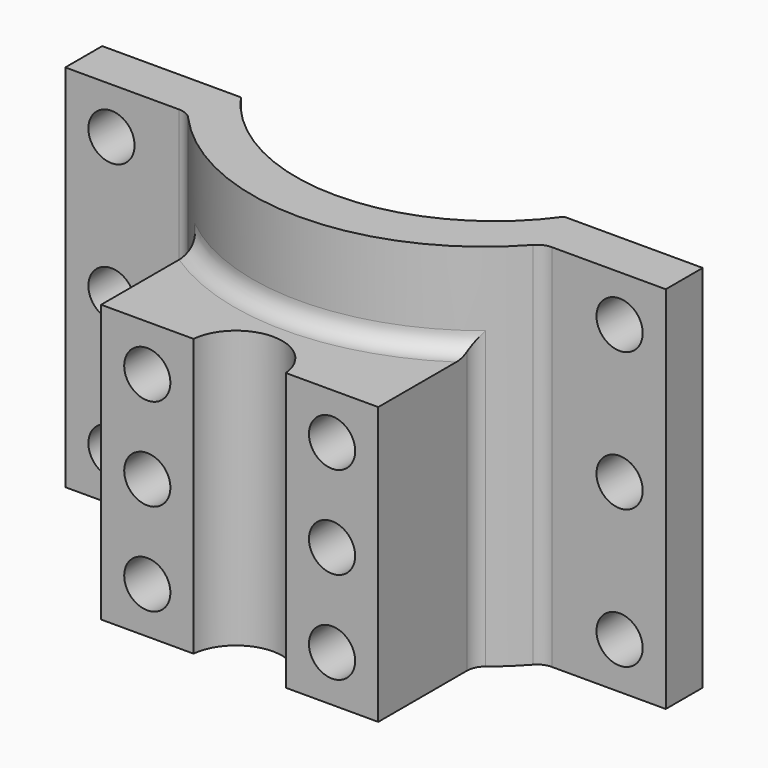
from build123d import *

# Parameters (mm, degrees)
F0_R      = 6.35
F1_DEPTH  = 47.625
F3_DEPTH  = 31.75
F4_R      = 23.8125
F4_R_2    = 18.7325
F5_DEPTH  = 20.32
F6_R      = 54.61
F6_R_2    = 6.35
F7_DEPTH  = 14.605
F8_R      = 54.5973
F8_R_2    = 6.35
F9_DEPTH  = 118.491
F10_R     = 54.61
F10_R_2   = 54.5973
F10_R_3   = 6.35
F11_DEPTH = 57.15
F13_DEPTH = 101.6
F15_DEPTH = 25.4
F16_DEPTH = 76.2
F18_DEPTH = 76.2
F20_D     = 12.7
F20_DEPTH = 12.7
F20_TIP   = 3.8154649308
F22_D     = 12.7
F22_2_D   = 12.7
F23_R     = 5.08
F23_2_R   = 5.08


with BuildPart() as f1:
    # F0 (on Top) → F1 (new body)
    with BuildSketch(Plane.XY):
        Circle(F0_R)
    extrude(amount=-F1_DEPTH)

    # F2 (on face) → F3 (cut)
    with BuildSketch(Plane.XY):
        with BuildLine():
            Line((-3.4925, 5.3032955556), (3.4925, 5.3032955556))
            ThreePointArc((3.4925, 5.3032955556), (0, 6.35), (-3.4925, 5.3032955556))
        make_face()
    extrude(amount=-F3_DEPTH, mode=Mode.SUBTRACT)


with BuildPart() as f5:
    # F4 (on face) → F5 (new body)
    with BuildSketch(Plane(origin=(0, 0, -47.625), x_dir=(1, 0, 0), z_dir=(0, 0, -1))):
        Circle(F4_R)
        Circle(F4_R_2, mode=Mode.SUBTRACT)
    extrude(amount=-F5_DEPTH)


with BuildPart() as f7:
    # F6 (on face) → F7 (new body)
    with BuildSketch(Plane(origin=(0, 0, -47.625), x_dir=(1, 0, 0), z_dir=(0, 0, -1))):
        Circle(F6_R)
        Circle(F6_R_2, mode=Mode.SUBTRACT)
        Circle(F6_R)
        Circle(F6_R_2, mode=Mode.SUBTRACT)
    extrude(amount=F7_DEPTH)

    # F8 (on face) → F9 (join)
    with BuildSketch(Plane(origin=(0, 0, -62.23), x_dir=(1, 0, 0), z_dir=(0, 0, -1))):
        Circle(F8_R)
        Circle(F8_R_2, mode=Mode.SUBTRACT)
    extrude(amount=F9_DEPTH)

    # F10 (on face) → F11 (join)
    with BuildSketch(Plane(origin=(0, 0, -180.721), x_dir=(1, 0, 0), z_dir=(0, 0, -1))):
        Circle(F10_R)
        Circle(F10_R_2, mode=Mode.SUBTRACT)
        Circle(F10_R_2)
        Circle(F10_R_3, mode=Mode.SUBTRACT)
    extrude(amount=F11_DEPTH)


with BuildPart() as f13:
    # F12 (on face) → F13 (new body)
    with BuildSketch(Plane.XY.offset(-47.625)):
        with BuildLine():
            Line((-82.55, 31.7245898319), (-44.45, 31.7245898319))
            ThreePointArc((-44.45, 31.7245898319), (-24.9977223891, 48.5527133676), (0, 54.61))
            Line((0, 54.61), (0, 67.31))
            ThreePointArc((0, 67.31), (-26.9947671741, 61.30558596), (-48.8991597124, 44.4245898319))
            Line((-48.8991597124, 44.4245898319), (-82.55, 44.4245898319))
            Line((-82.55, 44.4245898319), (-82.55, 31.7245898319))
        make_face()
        with BuildLine():
            ThreePointArc((0, 54.61), (24.9977223891, 48.5527133676), (44.45, 31.7245898319))
            Line((44.45, 31.7245898319), (82.55, 31.7245898319))
            Line((82.55, 31.7245898319), (82.55, 44.4245898319))
            Line((82.55, 44.4245898319), (48.8991597124, 44.4245898319))
            ThreePointArc((48.8991597124, 44.4245898319), (26.9947671741, 61.30558596), (0, 67.31))
            Line((0, 67.31), (0, 54.61))
        make_face()
    extrude(amount=-F13_DEPTH)

    # F22 (through all)
    with Locations(Plane.XZ.offset(44.4245898319)):
        with Locations((-69.85, -60.325), (-69.85, -98.425), (-69.85, -136.525), (69.85, -60.325), (69.85, -98.425), (69.85, -136.525)):
            Hole(F22_D / 2)

    # F23#2
    f23_2_edges = [f13.edges().sort_by_distance(p)[0] for p in [
        (-48.89916, 44.42459, -98.425),
        (48.89916, 44.42459, -98.425),
    ]]
    fillet(f23_2_edges, radius=F23_2_R)


with BuildPart() as f15:
    # F14 (on face) → F15 (new body)
    with BuildSketch(Plane.XY.offset(-47.625)):
        with BuildLine():
            Line((82.55, -31.7245898319), (44.45, -31.7245898319))
            ThreePointArc((44.45, -31.7245898319), (24.9977223891, -48.5527133676), (0, -54.61))
            Line((0, -54.61), (0, -67.31))
            ThreePointArc((0, -67.31), (26.9947671741, -61.30558596), (48.8991597124, -44.4245898319))
            Line((48.8991597124, -44.4245898319), (82.55, -44.4245898319))
            Line((82.55, -44.4245898319), (82.55, -31.7245898319))
        make_face()
        with BuildLine():
            ThreePointArc((0, -54.61), (-24.9977223891, -48.5527133676), (-44.45, -31.7245898319))
            Line((-44.45, -31.7245898319), (-82.55, -31.7245898319))
            Line((-82.55, -31.7245898319), (-82.55, -44.4245898319))
            Line((-82.55, -44.4245898319), (-48.8991597124, -44.4245898319))
            ThreePointArc((-48.8991597124, -44.4245898319), (-26.9947671741, -61.30558596), (0, -67.31))
            Line((0, -67.31), (0, -54.61))
        make_face()
    extrude(amount=-F15_DEPTH)

    # F16 (add): faces of the model
    f16_faces = [f15.faces().sort_by_distance(p)[0] for p in [
        (80.8610852178, -38.0745898319, -73.025),
        (80.8610852178, -38.0745898319, -73.025),
    ]]
    extrude(f16_faces, amount=F16_DEPTH)

    # F17 (on face) → F18 (join)
    with BuildSketch(Plane(origin=(0, 0, -149.225), x_dir=(1, 0, 0), z_dir=(0, 0, -1))):
        with BuildLine():
            Line((-38.1, 87.6758182624), (-38.1, 54.6558182624))
            ThreePointArc((-38.1, 54.6558182624), (0, 67.31), (38.1, 54.6558182624))
            Line((38.1, 54.6558182624), (38.1, 87.6758182624))
            Line((38.1, 87.6758182624), (12.7, 87.6758182624))
            ThreePointArc((12.7, 87.6758182624), (0, 76.2), (-12.7, 87.6758182624))
            Line((-12.7, 87.6758182624), (-38.1, 87.6758182624))
        make_face()
    extrude(amount=-F18_DEPTH)

    # F20
    with Locations(Plane.XZ.offset(87.6758182624)):
        with Locations((-25.4, -85.725), (25.4, -85.725), (-25.4, -111.125), (25.4, -111.125), (-25.4, -136.525), (25.4, -136.525)):
            Hole(F20_D / 2, depth=F20_DEPTH)
            with Locations((0, 0, -(F20_DEPTH + F20_TIP / 2))):  # 118° drill point
                Cone(0, F20_D / 2, F20_TIP, mode=Mode.SUBTRACT)

    # F22#2 (through all)
    with Locations(Plane.XZ.offset(44.4245898319)):
        with Locations((-69.85, -60.325), (-69.85, -98.425), (-69.85, -136.525), (69.85, -60.325), (69.85, -98.425), (69.85, -136.525)):
            Hole(F22_2_D / 2)

    # F23
    f23_edges = [f15.edges().sort_by_distance(p)[0] for p in [
        (-38.1, -54.655818, -111.125),
        (0, -67.31, -73.025),
        (38.1, -54.655818, -111.125),
        (48.89916, -44.42459, -98.425),
        (-48.89916, -44.42459, -98.425),
    ]]
    fillet(f23_edges, radius=F23_R)


solid = f15.part
